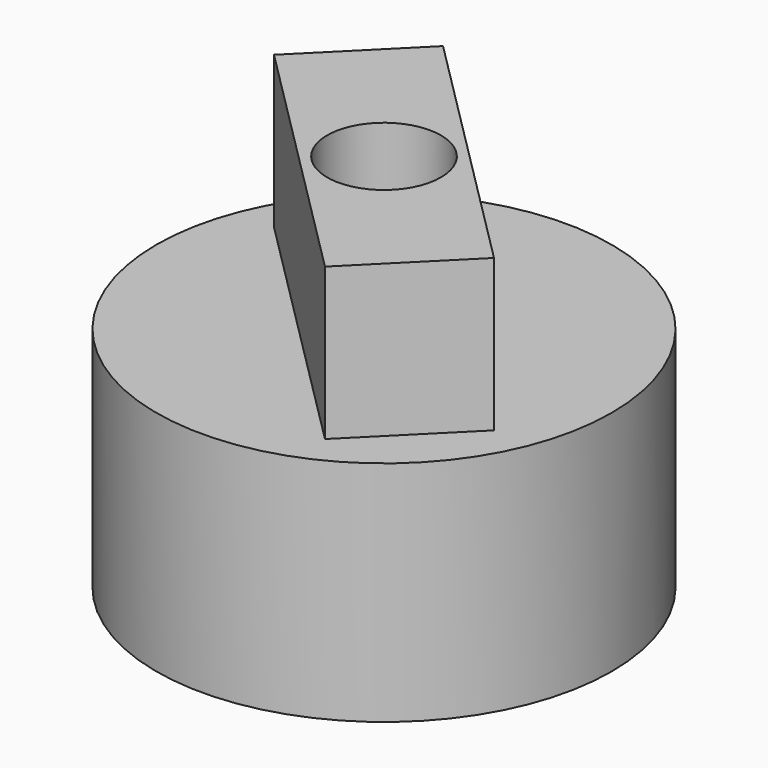
from build123d import *

# Parameters (mm, degrees)
F0_R     = 7.62
F1_DEPTH = 7.62
F2_W     = 5.08
F2_H     = 12.7
F3_DEPTH = 5.08
F5_DEPTH = 5.08
F6_R     = 1.905
F7_DEPTH = 12.701


with BuildPart() as f1:
    # F0 (on Top) → F1 (new body)
    with BuildSketch(Plane.XY):
        Circle(F0_R)
    extrude(amount=F1_DEPTH)

    # F2 (on face) → F3 (cut)
    with BuildSketch(Plane(origin=(0, 0, 0), x_dir=(1, 0, 0), z_dir=(0, 0, -1))):
        Rectangle(F2_W, F2_H)
    extrude(amount=-F3_DEPTH, mode=Mode.SUBTRACT)

    # F4 (on face) → F5 (join)
    with BuildSketch(Plane.XY.offset(7.62)):
        Polygon((-2.694077, 5.837166), (-5.837166, 2.694077), (2.694077, -5.837166), (5.837166, -2.694077), align=None)
    extrude(amount=F5_DEPTH)

    # F6 (on face) → F7 (cut, through all)
    with BuildSketch(Plane.XY.offset(12.7)):
        Circle(F6_R)
    extrude(amount=-F7_DEPTH, mode=Mode.SUBTRACT)


solid = f1.part
